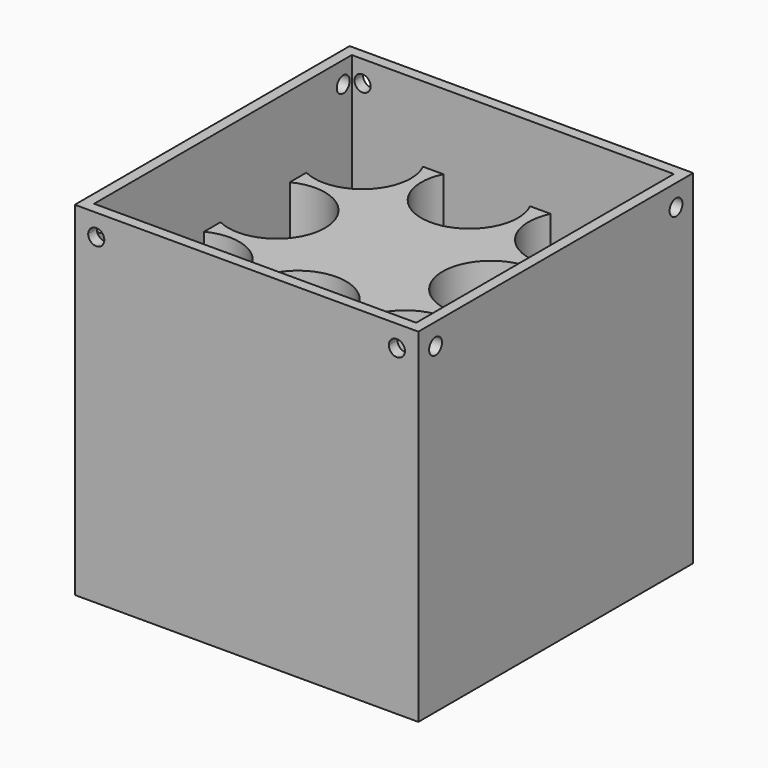
from build123d import *

# Parameters (mm, degrees)
F0_W      = 76.2
F0_H      = 76.2
F1_DEPTH  = 81.28
F2_W      = 76.2
F2_H      = 76.2
F3_DEPTH  = 5.08
F6_DEPTH  = 81.281
F8_DEPTH  = 81.281
F10_DEPTH = 81.281
F12_DEPTH = 81.281
F13_DEPTH = 63.5


with BuildPart() as f1:
    # F0 (on Top) → F1 (new body)
    with BuildSketch(Plane.XY):
        Polygon((78.74, 2.54), (0, 2.54), (-2.54, 2.54), (-2.54, -78.74), (78.74, -78.74), align=None)
        with Locations((38.1, -38.1)):
            Rectangle(F0_W, F0_H, mode=Mode.SUBTRACT)
    extrude(amount=F1_DEPTH)

    # F5 (on face) → F6 (cut, through all)
    with BuildSketch(Plane(origin=(-2.54, 0, 0), x_dir=(0, -1, 0), z_dir=(-1, 0, 0))):
        with BuildLine():
            ThreePointArc((4.445, 76.2), (3.8870384182, 77.5470384182), (2.54, 78.105))
            ThreePointArc((2.54, 78.105), (1.1929615818, 74.8529615818), (4.445, 76.2))
        make_face()
    extrude(amount=-F6_DEPTH, mode=Mode.SUBTRACT)

    # F7 (on face) → F8 (cut, through all)
    with BuildSketch(Plane(origin=(0, 2.54, 0), x_dir=(-1, 0, 0), z_dir=(0, 1, 0))):
        with BuildLine():
            ThreePointArc((-0.635, 76.2), (-1.1929615818, 77.5470384182), (-2.54, 78.105))
            ThreePointArc((-2.54, 78.105), (-3.8870384182, 74.8529615818), (-0.635, 76.2))
        make_face()
    extrude(amount=-F8_DEPTH, mode=Mode.SUBTRACT)

    # F9 (on face) → F10 (cut, through all)
    with BuildSketch(Plane(origin=(0, 2.54, 0), x_dir=(-1, 0, 0), z_dir=(0, 1, 0))):
        with BuildLine():
            ThreePointArc((-71.755, 76.2), (-72.3129615818, 77.5470384182), (-73.66, 78.105))
            ThreePointArc((-73.66, 78.105), (-75.0070384182, 74.8529615818), (-71.755, 76.2))
        make_face()
    extrude(amount=-F10_DEPTH, mode=Mode.SUBTRACT)

    # F11 (on face) → F12 (cut, through all)
    with BuildSketch(Plane(origin=(-2.54, 0, 0), x_dir=(0, -1, 0), z_dir=(-1, 0, 0))):
        with BuildLine():
            ThreePointArc((75.565, 76.2), (75.0070384182, 77.5470384182), (73.66, 78.105))
            ThreePointArc((73.66, 78.105), (72.3129615818, 74.8529615818), (75.565, 76.2))
        make_face()
    extrude(amount=-F12_DEPTH, mode=Mode.SUBTRACT)


with BuildPart() as f3:
    # F2 (on Top) → F3 (new body)
    with BuildSketch(Plane.XY):
        with Locations((38.1, -38.1)):
            Rectangle(F2_W, F2_H)
    extrude(amount=F3_DEPTH)


with BuildPart() as f13:
    # F4 (on face) → F13 (new body)
    with BuildSketch(Plane.XY.offset(5.08)):
        with BuildLine():
            ThreePointArc((22.9390673403, -7.62), (23.8282846769, -10.0911343174), (24.13, -12.7))
            ThreePointArc((24.13, -12.7), (18.7186363664, -22.4170425691), (7.6084048487, -22.9333063482))
            Line((7.6084048487, -22.9333063482), (7.6084048487, -27.8551705549))
            ThreePointArc((7.6084048487, -27.8551705549), (18.7186363664, -28.371434334), (24.13, -38.0884769031))
            ThreePointArc((24.13, -38.0884769031), (18.7186363664, -47.8055194722), (7.6084048487, -48.3217832513))
            Line((7.6084048487, -48.3217832513), (7.6084048487, -53.1836055481))
            ThreePointArc((7.6084048487, -53.1836055481), (18.7102767186, -53.7124476273), (24.1140926837, -63.4248111901))
            ThreePointArc((24.1140926837, -63.4248111901), (23.8018289528, -66.078269358), (22.8820996393, -68.5867443681))
            Line((22.8820996393, -68.5867443681), (27.7874381008, -68.5867443681))
            ThreePointArc((27.7874381008, -68.5867443681), (35.3653349122, -52.334746614), (49.4314745047, -63.4566020369))
            ThreePointArc((49.4314745047, -63.4566020369), (49.1233299277, -66.0927416294), (48.2155109087, -68.5867443681))
            Line((48.2155109087, -68.5867443681), (53.1517990323, -68.5867443681))
            ThreePointArc((53.1517990323, -68.5867443681), (55.265455445, -55.4404802221), (68.3933794498, -53.2157519802))
            Line((68.3933794498, -53.2157519802), (68.3933794498, -48.3689614721))
            ThreePointArc((68.3933794498, -48.3689614721), (51.9677276379, -38.0884769031), (68.3933794498, -27.8079923341))
            Line((68.3933794498, -27.8079923341), (68.3933794498, -22.980484569))
            ThreePointArc((68.3933794498, -22.980484569), (55.2823426717, -20.7489394861), (53.1586602976, -7.62))
            Line((53.1586602976, -7.62), (48.2564691212, -7.62))
            ThreePointArc((48.2564691212, -7.62), (49.1456864577, -10.0911343174), (49.4474017808, -12.7))
            ThreePointArc((49.4474017808, -12.7), (35.4085360982, -23.8282846769), (27.7783344405, -7.62))
            Line((27.7783344405, -7.62), (22.9390673403, -7.62))
        make_face()
    extrude(amount=F13_DEPTH)


solid = Compound([f1.part, f3.part, f13.part])
